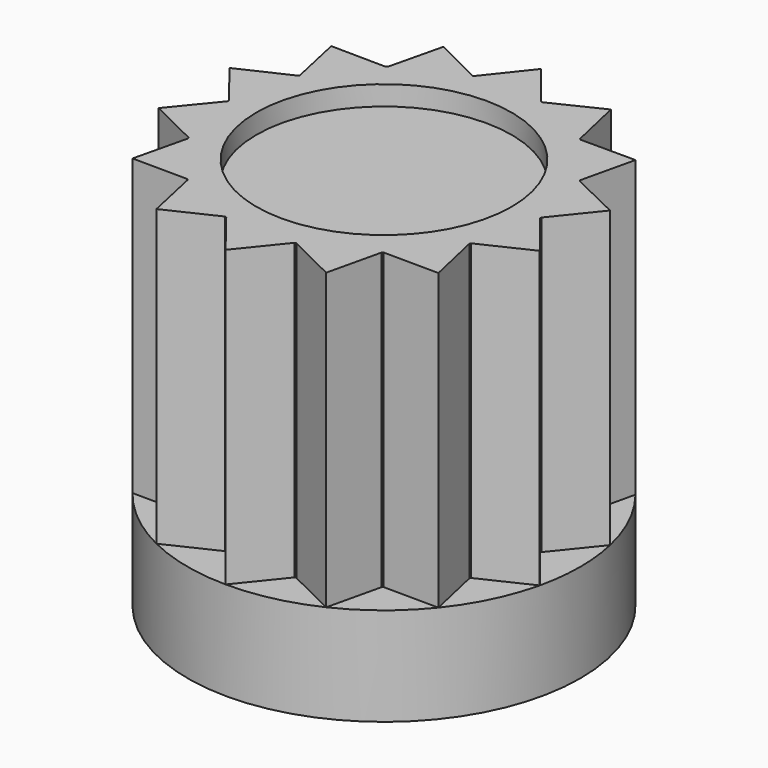
from build123d import *

# Parameters (mm, degrees)
F0_R     = 25.4
F1_DEPTH = 25.4
F3_DEPTH = 38.1
F4_R     = 16.51
F5_DEPTH = 2.54


with BuildPart() as f1:
    # F0 (on Top) → F1 (new body, symmetric)
    with BuildSketch(Plane.XY):
        Circle(F0_R)
    extrude(amount=F1_DEPTH, both=True)

    # F2 (on face) → F3 (cut)
    with BuildSketch(Plane.XY.offset(25.4)):
        with BuildLine():
            Line((-4.4029086505, 19.8602374906), (0, 25.4))
            ThreePointArc((0, 25.4), (-5.497566194, 24.7979185808), (-10.7345038482, 23.0202177907))
            Line((-10.7345038482, 23.0202177907), (-4.4029086505, 19.8602374906))
        make_face()
        with BuildLine():
            Line((4.6370208097, 19.7838428525), (11.0425876049, 22.8740302305))
            ThreePointArc((11.0425876049, 22.8740302305), (5.6639046666, 24.7604560525), (0, 25.4))
            Line((0, 25.4), (4.4250969953, 19.83232))
            ThreePointArc((4.4250969953, 19.83232), (4.5311237333, 19.808364842), (4.6370208097, 19.7838428525))
        make_face()
        with BuildLine():
            Line((12.776857167, 15.8004531876), (19.8888569054, 15.7985243297))
            ThreePointArc((19.8888569054, 15.7985243297), (15.865190223, 19.8357187716), (11.0425876049, 22.8740302305))
            Line((11.0425876049, 22.8740302305), (12.6070839942, 15.9362427555))
            ThreePointArc((12.6070839942, 15.9362427555), (12.6921521784, 15.8685750173), (12.776857167, 15.8004531876))
        make_face()
        with BuildLine():
            ThreePointArc((18.2815817765, 8.8705224056), (18.3287717486, 8.7726008794), (18.3754372288, 8.6744283184))
            Line((18.3754372288, 8.6744283184), (24.7793268915, 5.5807668652))
            ThreePointArc((24.7793268915, 5.5807668652), (22.9109646857, 10.9657510992), (19.8888569054, 15.7985243297))
            Line((19.8888569054, 15.7985243297), (18.2815817765, 8.8705224056))
        make_face()
        with BuildLine():
            ThreePointArc((20.319959645, 0.0404972182), (20.3199899113, 0.0202486192), (20.32, 0))
            ThreePointArc((20.32, 0), (20.3198074922, -0.0884504401), (20.3192299724, -0.1768992043))
            Line((20.3192299724, -0.1768992043), (24.7413062764, -5.7469786617))
            ThreePointArc((24.7413062764, -5.7469786617), (25.2347892741, -2.8923019016), (25.4, 0))
            ThreePointArc((25.4, 0), (25.2443548446, 2.8075876616), (24.7793268915, 5.5807668652))
            Line((24.7793268915, 5.5807668652), (20.319959645, 0.0404972182))
        make_face()
        with BuildLine():
            Line((24.7413062764, -5.7469786617), (18.3167939088, -8.7975826738))
            ThreePointArc((18.3167939088, -8.7975826738), (18.2694704717, -8.895439769), (18.2216242397, -8.9930423143))
            Line((18.2216242397, -8.9930423143), (19.78235718, -15.9316773882))
            ThreePointArc((19.78235718, -15.9316773882), (22.8368380896, -11.1192997112), (24.7413062764, -5.7469786617))
        make_face()
        with BuildLine():
            ThreePointArc((10.8887910596, -22.9476410391), (15.7316804593, -19.9417709827), (19.78235718, -15.9316773882))
            Line((19.78235718, -15.9316773882), (12.6705047326, -15.8858650951))
            ThreePointArc((12.6705047326, -15.8858650951), (12.5853443674, -15.9534167862), (12.4998238629, -16.020511958))
            Line((12.4998238629, -16.020511958), (10.8887910596, -22.9476410391))
        make_face()
        with BuildLine():
            ThreePointArc((-0.1705039618, -25.3994277179), (5.497566194, -24.7979185808), (10.8887910596, -22.9476410391))
            Line((10.8887910596, -22.9476410391), (4.5041122558, -19.8145242887))
            ThreePointArc((4.5041122558, -19.8145242887), (4.3980529552, -19.8383348647), (4.291867801, -19.8615777515))
            Line((4.291867801, -19.8615777515), (-0.1705039618, -25.3994277179))
        make_face()
        with BuildLine():
            ThreePointArc((-11.1958865538, -22.799388682), (-5.8299879147, -24.7218777789), (-0.1705039618, -25.3994277179))
            Line((-0.1705039618, -25.3994277179), (-4.5581267877, -19.8021685728))
            ThreePointArc((-4.5581267877, -19.8021685728), (-4.6639903317, -19.7775022231), (-4.7697204121, -19.752269925))
            Line((-4.7697204121, -19.752269925), (-11.1958865538, -22.799388682))
        make_face()
        with BuildLine():
            ThreePointArc((-19.9944604075, -15.6646593648), (-15.9979850762, -19.7287727318), (-11.1958865538, -22.799388682))
            Line((-11.1958865538, -22.799388682), (-12.7137760303, -15.8512554409))
            ThreePointArc((-12.7137760303, -15.8512554409), (-12.798388061, -15.7830181854), (-12.882633856, -15.7143292868))
            Line((-12.882633856, -15.7143292868), (-19.9944604075, -15.6646593648))
        make_face()
        with BuildLine():
            ThreePointArc((-24.816230911, -5.4143035905), (-22.9840588775, -10.8117083532), (-19.9944604075, -15.6646593648))
            Line((-19.9944604075, -15.6646593648), (-18.3407155164, -8.7476027772))
            ThreePointArc((-18.3407155164, -8.7476027772), (-18.387247102, -8.6493666825), (-18.4332525225, -8.5508830796))
            Line((-18.4332525225, -8.5508830796), (-24.816230911, -5.4143035905))
        make_face()
        with BuildLine():
            Line((-20.3175846832, 0.313293219), (-24.7021707789, 5.9129314903))
            ThreePointArc((-24.7021707789, 5.9129314903), (-25.3987123714, 0.2557535417), (-24.816230911, -5.4143035905))
            Line((-24.816230911, -5.4143035905), (-20.3197736682, 0.0959065927))
            ThreePointArc((-20.3197736682, 0.0959065927), (-20.3189698971, 0.2046028333), (-20.3175846832, 0.313293219))
        make_face()
        with BuildLine():
            Line((-18.1608456078, 9.1151569822), (-19.6749660304, 16.0641125401))
            ThreePointArc((-19.6749660304, 16.0641125401), (-22.7616824296, 11.27234727), (-24.7021707789, 5.9129314903))
            Line((-24.7021707789, 5.9129314903), (-18.2573252052, 8.9203405963))
            ThreePointArc((-18.2573252052, 8.9203405963), (-18.2093459437, 9.017877816), (-18.1608456078, 9.1151569822))
        make_face()
        with BuildLine():
            Line((-12.3920004699, 16.1040592508), (-10.7345038482, 23.0202177907))
            ThreePointArc((-10.7345038482, 23.0202177907), (-15.5974618012, 20.0469245861), (-19.6749660304, 16.0641125401))
            Line((-19.6749660304, 16.0641125401), (-12.5635813453, 15.9705611604))
            ThreePointArc((-12.5635813453, 15.9705611604), (-12.4779694409, 16.0375396689), (-12.3920004699, 16.1040592508))
        make_face()
    extrude(amount=-F3_DEPTH, mode=Mode.SUBTRACT)

    # F4 (on face) → F5 (cut)
    with BuildSketch(Plane.XY.offset(25.4)):
        Circle(F4_R)
    extrude(amount=-F5_DEPTH, mode=Mode.SUBTRACT)


solid = f1.part
